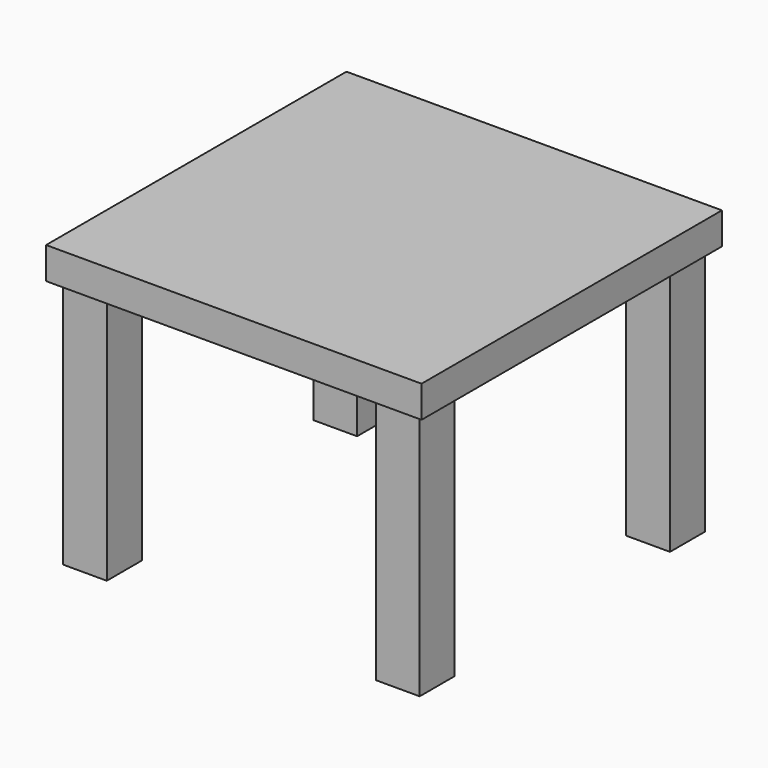
from build123d import *

# Parameters (mm, degrees)
F0_W     = 600
F0_H     = 600
F1_DEPTH = 50.8
F3_W     = 70
F3_H     = 70
F4_DEPTH = 400
F5_COUNT = 4


with BuildPart() as f1:
    # F0 (on Top) → F1 (new body)
    with BuildSketch(Plane.XY):
        Rectangle(F0_W, F0_H)
    extrude(amount=F1_DEPTH)

    # F3 (on Top) → F4 (join)
    with BuildSketch(Plane.XY):
        with Locations((-250, -250)):
            Rectangle(F3_W, F3_H)
    extrude(amount=-F4_DEPTH)

    # F5: F1 ×4 about axis
    f5_axis = Axis((0, 0, -387.7218663692), (0, 0, 1))


with BuildPart() as f1_1:
    add(f1.part)
    for i in range(1, F5_COUNT):
        add(f1.part.rotate(f5_axis, i * 360 / F5_COUNT))


solid = f1_1.part
